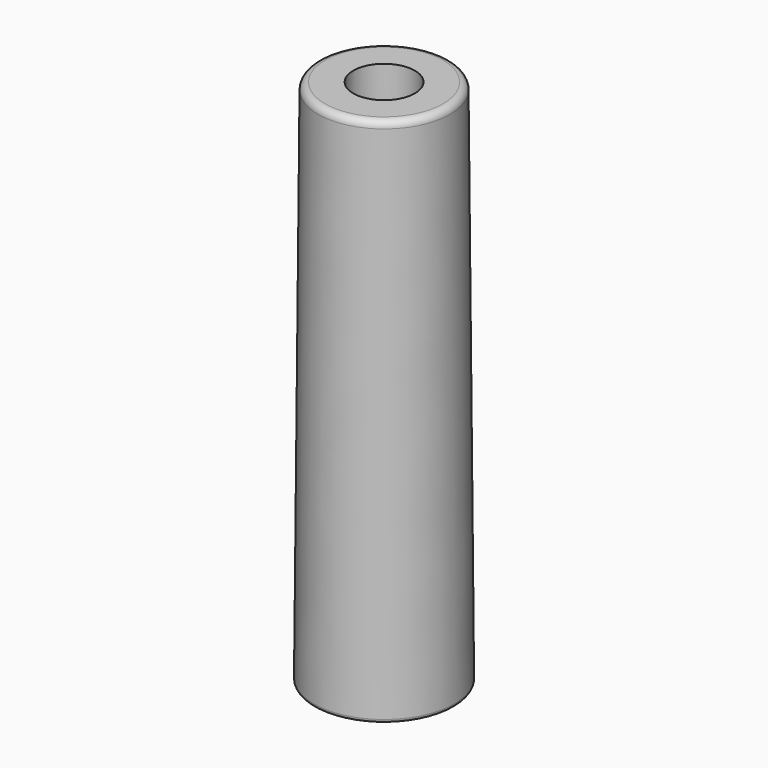
from build123d import *

# Parameters (mm, degrees)
FILLET_R    = 0.4
FILLET002_R = 0.2
FILLET003_R = 0.2


with BuildPart() as inner_cutout:
    # Cone → Cone (revolve)
    with BuildSketch(Plane.XZ):
        Polygon((0, 0), (2, 0), (1.75, 30), (0, 30), align=None)
    revolve(axis=Axis((0, 0, 0), (0, 0, 1)))


with BuildPart() as fillet003:
    # Cone001 → Cone001 (revolve)
    with BuildSketch(Plane.XZ):
        Polygon((0, 0), (4, 0), (3.75, 30), (0, 30), align=None)
    revolve(axis=Axis((0, 0, 0), (0, 0, 1)))

    # Cut: cut Inner Cutout
    add(inner_cutout.part, mode=Mode.SUBTRACT)

    # Fillet
    fillet_edges = [fillet003.edges().sort_by_distance(p)[0] for p in [
        (-3.75, 0, 30),
    ]]
    fillet(fillet_edges, radius=FILLET_R)

    # Fillet002
    fillet002_edges = [fillet003.edges().sort_by_distance(p)[0] for p in [
        (-4, 0, 0),
    ]]
    fillet(fillet002_edges, radius=FILLET002_R)

    # Fillet003
    fillet003_edges = [fillet003.edges().sort_by_distance(p)[0] for p in [
        (-2, 0, 0),
    ]]
    fillet(fillet003_edges, radius=FILLET003_R)


solid = fillet003.part
